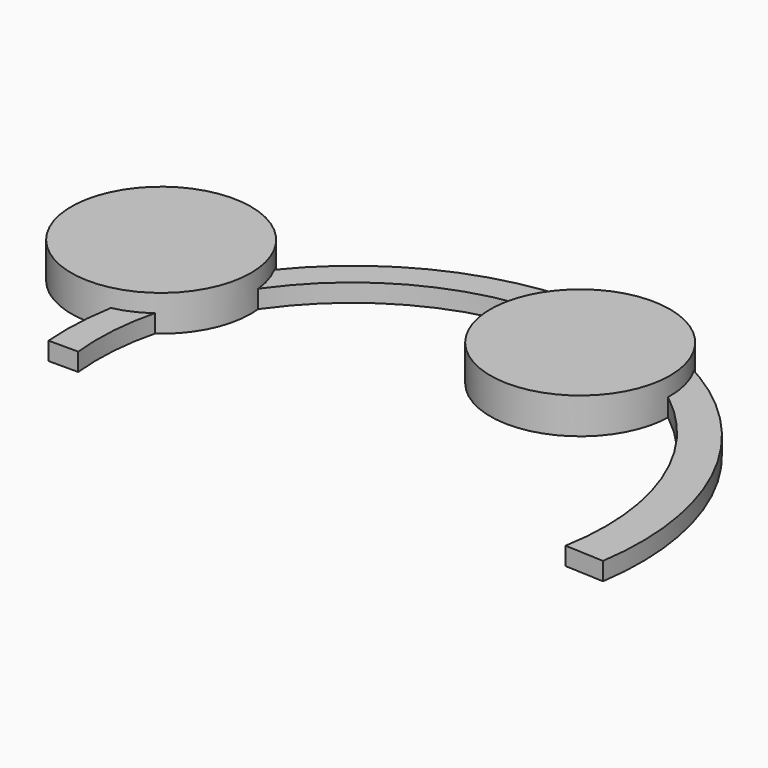
from build123d import *

# Parameters (mm, degrees)
F0_R     = 63.5
F1_DEPTH = 25.4
F3_DEPTH = 12.7
F4_DEPTH = 25.4


with BuildPart() as f1:
    # F0 (on Top) → F1 (new body)
    with BuildSketch(Plane.XY):
        with Locations((-225.252611, -12.118626)):
            Circle(F0_R)
        with Locations((31.969504, 36.57659)):
            Circle(F0_R)
    extrude(amount=F1_DEPTH)


with BuildPart() as f3:
    # F2 (on Top) → F3 (new body)
    with BuildSketch(Plane.XY):
        with BuildLine():
            Line((162.17002, -139.117779), (189.672404, -140.427396))
            ThreePointArc((189.672404, -140.427396), (-3.913268, 93.534319), (-213.695968, -126.021403))
            Line((-213.695968, -126.021403), (-192.741764, -126.021403))
            ThreePointArc((-192.741764, -126.021403), (-7.730961, 72.168505), (162.17002, -139.117779))
        make_face()
    extrude(amount=F3_DEPTH)


with BuildPart() as f4:
    # F0 (on Top) → F4 (new body)
    with BuildSketch(Plane.XY):
        with Locations((-225.252611, -12.118626)):
            Circle(F0_R)
        with Locations((31.969504, 36.57659)):
            Circle(F0_R)
    extrude(amount=F4_DEPTH)


solid = Compound([f1.part, f3.part, f4.part])
